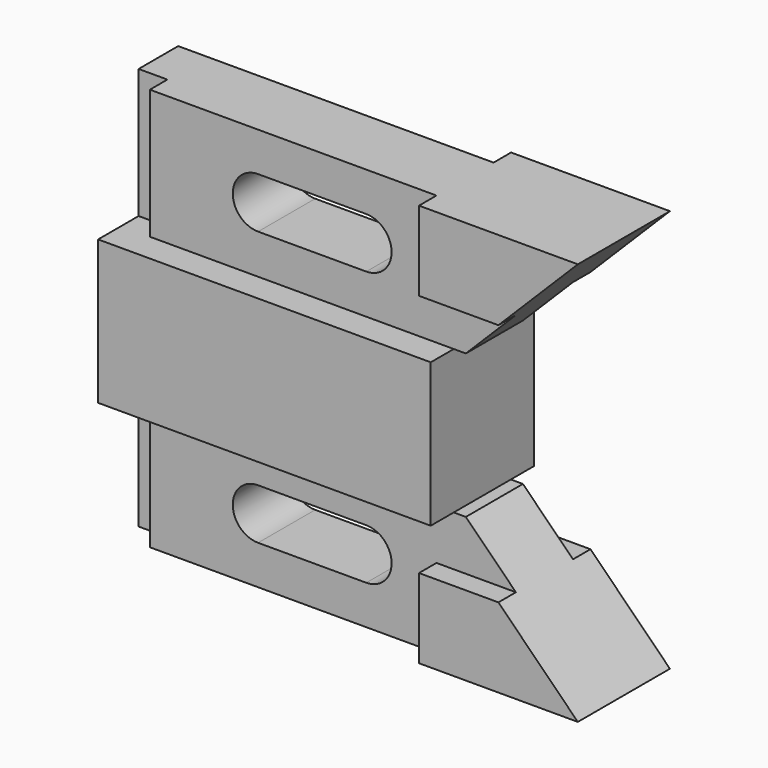
from build123d import *

# Parameters (mm, degrees)
F1_DEPTH  = 14.224
F2_W      = 6.35
F2_H      = 28.575
F3_DEPTH  = 104.649
F5_DEPTH  = 4.826
F8_W      = 4.826
F8_H      = 28.575
F9_DEPTH  = 6.35
F11_DEPTH = 22.099


with BuildPart() as f1:
    # F0 (on Front) → F1 (new body, symmetric)
    with BuildSketch(Plane.XZ):
        Polygon((106.6723847623, 44.45), (2.0243847623, 44.45), (2.0243847623, -44.45), (106.6723847623, -44.45), (78.0973847623, -15.875), (75.4303847623, -15.875), (75.4303847623, 15.875), (78.0973847623, 15.875), align=None)
    extrude(amount=F1_DEPTH, both=True)

    # F2 (on face) → F3 (cut, through all)
    with BuildSketch(Plane(origin=(2.0243847623, 0, 0), x_dir=(0, -1, 0), z_dir=(-1, 0, 0))):
        with Locations((-11.049, 30.1625)):
            Rectangle(F2_W, F2_H)
        with Locations((11.049, 30.1625)):
            Rectangle(F2_W, F2_H)
        with Locations((-11.049, -30.1625)):
            Rectangle(F2_W, F2_H)
        with Locations((11.049, -30.1625)):
            Rectangle(F2_W, F2_H)
    extrude(amount=-F3_DEPTH, mode=Mode.SUBTRACT)

    # F4 (on face) → F5 (join)
    with BuildSketch(Plane.XZ.offset(7.874)):
        Polygon((106.6723847623, 44.45), (71.6203847623, 44.45), (71.6203847623, 26.924), (89.1463847623, 26.924), align=None)
    extrude(amount=F5_DEPTH)

    # F6: F1 across plane


with BuildPart() as f1_1:
    add(f1.part)
    add(f1.part.mirror(Plane.XZ))

    # F7: F1 across plane


with BuildPart() as f1_2:
    add(f1_1.part)
    add(f1_1.part.mirror(Plane.XY))

    # F8 (on face) → F9 (cut)
    with BuildSketch(Plane(origin=(2.0243847623, 0, 0), x_dir=(0, -1, 0), z_dir=(-1, 0, 0))):
        with Locations((5.461, 30.1625)):
            Rectangle(F8_W, F8_H)
        with Locations((5.461, -30.1625)):
            Rectangle(F8_W, F8_H)
    extrude(amount=-F9_DEPTH, mode=Mode.SUBTRACT)

    # F10 (on face) → F11 (cut, through all)
    with BuildSketch(Plane.XZ.offset(7.874)):
        with BuildLine():
            Line((56.1263847623, -24.638), (32.2503847623, -24.638))
            ThreePointArc((32.2503847623, -24.638), (26.6623847623, -30.226), (32.2503847623, -35.814))
            Line((32.2503847623, -35.814), (56.1263847623, -35.814))
            ThreePointArc((56.1263847623, -35.814), (61.7143847623, -30.226), (56.1263847623, -24.638))
        make_face()
        with BuildLine():
            ThreePointArc((32.2503847623, 35.814), (26.6623847623, 30.226), (32.2503847623, 24.638))
            Line((32.2503847623, 24.638), (56.1263847623, 24.638))
            ThreePointArc((56.1263847623, 24.638), (61.7143847623, 30.226), (56.1263847623, 35.814))
            Line((56.1263847623, 35.814), (32.2503847623, 35.814))
        make_face()
    extrude(amount=-F11_DEPTH, mode=Mode.SUBTRACT)


solid = f1_2.part
